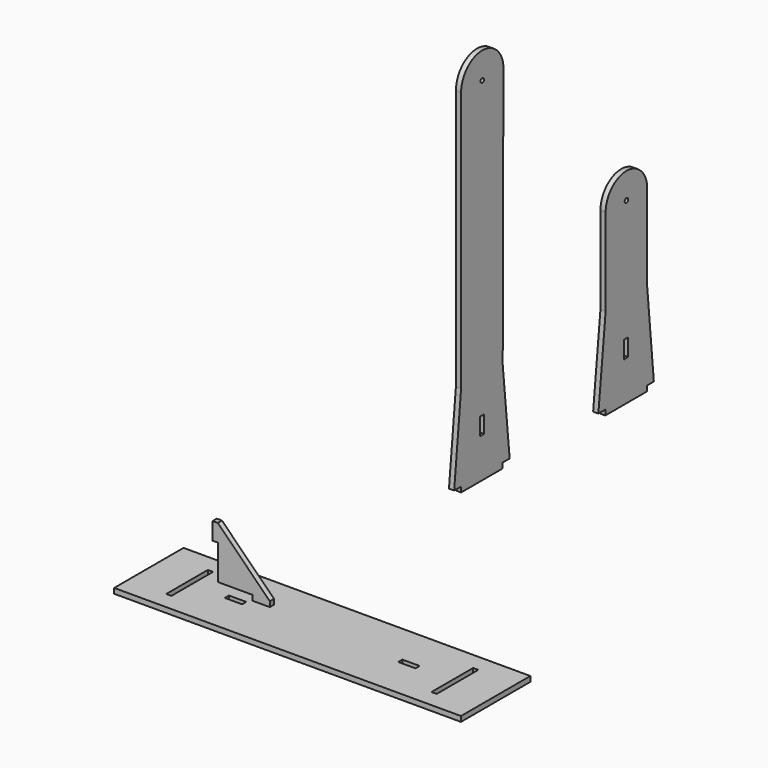
from build123d import *

# Parameters (mm, degrees)
F0_W     = 400
F0_H     = 100
F0_W_2   = 6
F0_H_2   = 60
F0_W_3   = 20
F0_H_3   = 6
F1_DEPTH = 6
F3_DEPTH = 6
F4_W     = 6
F4_H     = 20
F5_DEPTH = 6
F6_DEPTH = 6


with BuildPart() as f1:
    # F0 (on Top) → F1 (new body)
    with BuildSketch(Plane.XY):
        Rectangle(F0_W, F0_H)
        with Locations((-153, 0)):
            Rectangle(F0_W_2, F0_H_2, mode=Mode.SUBTRACT)
        with Locations((-100, 0)):
            Rectangle(F0_W_3, F0_H_3, mode=Mode.SUBTRACT)
        with Locations((100, 0)):
            Rectangle(F0_W_3, F0_H_3, mode=Mode.SUBTRACT)
        with Locations((153, 0)):
            Rectangle(F0_W_2, F0_H_2, mode=Mode.SUBTRACT)
    extrude(amount=F1_DEPTH)


with BuildPart() as f3:
    # F2 (on Front) → F3 (new body)
    with BuildSketch(Plane.XZ):
        Polygon((-55.662855, 21.512951), (-115.662855, 81.512951), (-121.662855, 81.512951), (-121.662855, 61.512951), (-115.662855, 61.512951), (-115.662855, 21.512951), (-75.662855, 21.512951), (-75.662855, 15.512951), (-55.662855, 15.512951), align=None)
    extrude(amount=F3_DEPTH)


with BuildPart() as f5:
    # F4 (on Right) → F5 (new body)
    with BuildSketch(Plane.YZ):
        with BuildLine():
            Line((225.6846, 477.162799), (253.685034, 477.116201))
            ThreePointArc((253.685034, 477.116201), (223.23596, 507.717673), (192.685203, 477.217715))
            Line((192.685203, 477.217715), (220.685637, 477.171118))
            ThreePointArc((220.685637, 477.171118), (223.161903, 479.717606), (225.685203, 477.217715))
            ThreePointArc((225.685203, 477.217715), (225.685052, 477.190255), (225.6846, 477.162799))
        make_face()
        with BuildLine():
            Line((252.685203, 176.716459), (253.685034, 477.116201))
            Line((253.685034, 477.116201), (225.6846, 477.162799))
            ThreePointArc((225.6846, 477.162799), (223.181043, 474.717718), (220.685637, 477.171118))
            Line((220.685637, 477.171118), (192.685203, 477.217715))
            Line((192.685203, 477.217715), (192.685203, 176.716459))
            Line((192.685203, 176.716459), (182.685203, 77.217715))
            Line((182.685203, 77.217715), (192.685203, 77.217715))
            Line((192.685203, 77.217715), (192.685203, 71.217715))
            Line((192.685203, 71.217715), (252.685203, 71.217715))
            Line((252.685203, 71.217715), (252.685203, 77.217715))
            Line((252.685203, 77.217715), (262.685203, 77.217715))
            Line((262.685203, 77.217715), (252.685203, 176.716459))
        make_face()
        with Locations((222.685203, 127.217715)):
            Rectangle(F4_W, F4_H, mode=Mode.SUBTRACT)
    extrude(amount=F5_DEPTH)


with BuildPart() as f6:
    # F4 (on Right) → F6 (new body)
    with BuildSketch(Plane.YZ):
        with BuildLine():
            Line((252.685203, 176.716459), (253.685034, 477.116201))
            Line((253.685034, 477.116201), (225.6846, 477.162799))
            ThreePointArc((225.6846, 477.162799), (223.181043, 474.717718), (220.685637, 477.171118))
            Line((220.685637, 477.171118), (192.685203, 477.217715))
            Line((192.685203, 477.217715), (192.685203, 176.716459))
            Line((192.685203, 176.716459), (182.685203, 77.217715))
            Line((182.685203, 77.217715), (192.685203, 77.217715))
            Line((192.685203, 77.217715), (192.685203, 71.217715))
            Line((192.685203, 71.217715), (252.685203, 71.217715))
            Line((252.685203, 71.217715), (252.685203, 77.217715))
            Line((252.685203, 77.217715), (262.685203, 77.217715))
            Line((262.685203, 77.217715), (252.685203, 176.716459))
        make_face()
        with Locations((222.685203, 127.217715)):
            Rectangle(F4_W, F4_H, mode=Mode.SUBTRACT)
        with BuildLine():
            Line((225.6846, 477.162799), (253.685034, 477.116201))
            ThreePointArc((253.685034, 477.116201), (223.23596, 507.717673), (192.685203, 477.217715))
            Line((192.685203, 477.217715), (220.685637, 477.171118))
            ThreePointArc((220.685637, 477.171118), (223.161903, 479.717606), (225.685203, 477.217715))
            ThreePointArc((225.685203, 477.217715), (225.685052, 477.190255), (225.6846, 477.162799))
        make_face()
        with BuildLine():
            Line((460.557847, 64.870163), (460.557847, 70.870163))
            Line((460.557847, 70.870163), (470.557847, 70.870163))
            Line((470.557847, 70.870163), (461.057847, 170.41789))
            Line((461.057847, 170.41789), (461.057847, 270.870167))
            Line((461.057847, 270.870167), (433.557847, 270.870167))
            ThreePointArc((433.557847, 270.870167), (431.057847, 268.370167), (428.557847, 270.870167))
            Line((428.557847, 270.870167), (401.057847, 270.870167))
            Line((401.057847, 270.870167), (401.057847, 170.368907))
            Line((401.057847, 170.368907), (390.557847, 70.870163))
            Line((390.557847, 70.870163), (400.557847, 70.870163))
            Line((400.557847, 70.870163), (400.557847, 64.870163))
            Line((400.557847, 64.870163), (460.557847, 64.870163))
        make_face()
        with Locations((430.557847, 120.870163)):
            Rectangle(F4_W, F4_H, mode=Mode.SUBTRACT)
        with BuildLine():
            Line((433.557847, 270.870167), (461.057847, 270.870167))
            ThreePointArc((461.057847, 270.870167), (431.057847, 300.870167), (401.057847, 270.870167))
            Line((401.057847, 270.870167), (428.557847, 270.870167))
            ThreePointArc((428.557847, 270.870167), (431.057847, 273.370167), (433.557847, 270.870167))
        make_face()
    extrude(amount=F6_DEPTH)


solid = Compound([f1.part, f3.part, f5.part, f6.part])
